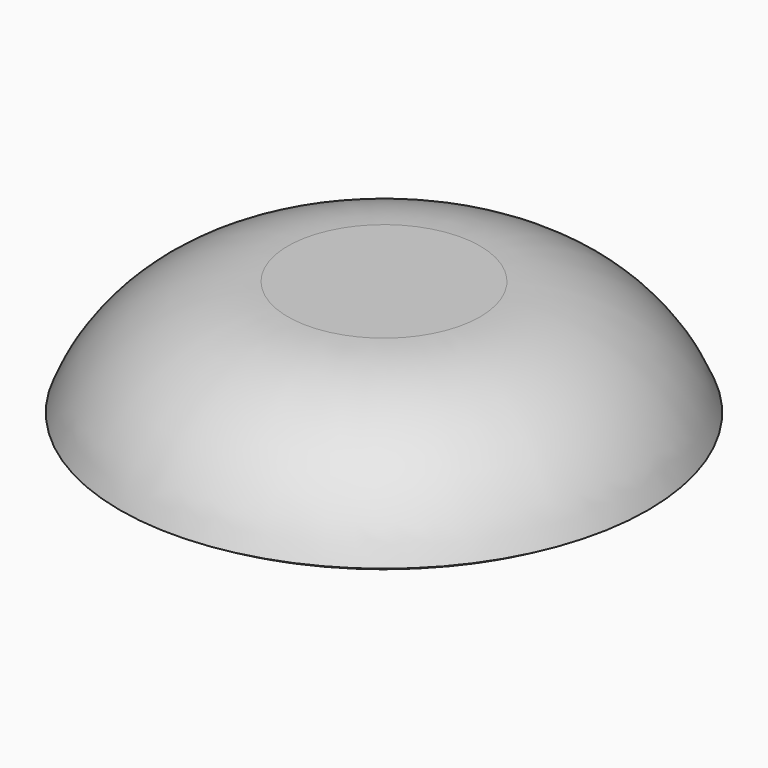
from build123d import *


with BuildPart() as f1:
    # F0 (on Front) → F1 (revolve)
    with BuildSketch(Plane.XZ):
        with BuildLine():
            Line((15.765299, -11.930967), (0, -11.930967))
            Line((0, -11.930967), (0, -15))
            ThreePointArc((0, -15), (8.091852, -14.540136), (15.765299, -11.930967))
        make_face()
        with BuildLine():
            Line((17.603877, -10.930967), (0, -10.930967))
            Line((0, -10.930967), (0, -11.930967))
            Line((0, -11.930967), (15.765299, -11.930967))
            ThreePointArc((15.765299, -11.930967), (16.693311, -11.447005), (17.603877, -10.930967))
        make_face()
        with BuildLine():
            Line((8, 0), (0, 0))
            Line((0, 0), (0, -10.930967))
            Line((0, -10.930967), (17.603877, -10.930967))
            ThreePointArc((17.603877, -10.930967), (19.898332, -10.594874), (22, -9.614835))
            ThreePointArc((22, -9.614835), (16.491835, -2.635182), (8, 0))
        make_face()
    revolve(axis=Axis((0, 0, -30.092861), (0, 0, -1)))


solid = f1.part
